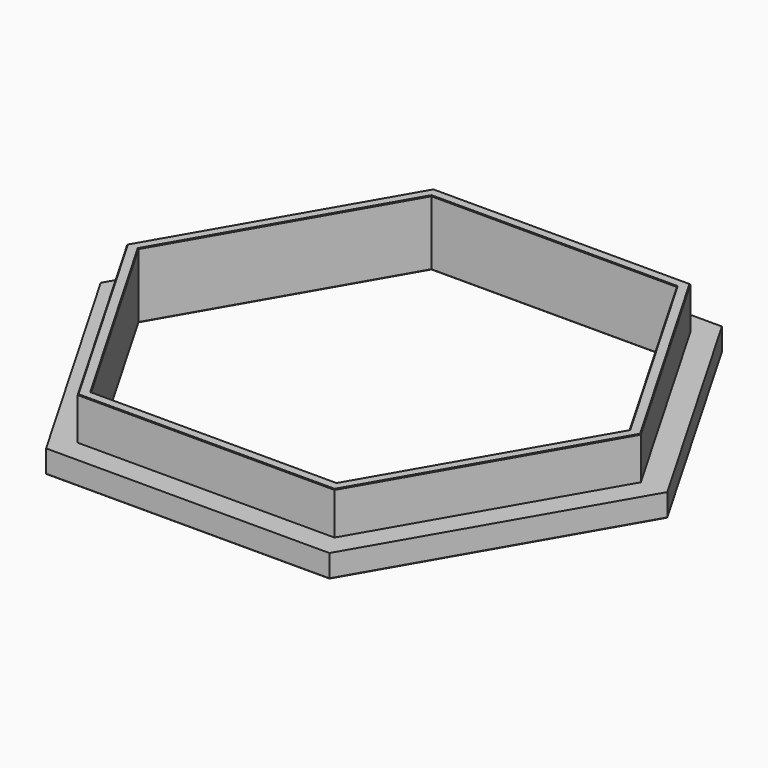
from build123d import *

# Parameters (mm, degrees)
F1_DEPTH = 10
F2_DEPTH = 3.5
F3_SIZE  = 0.1


with BuildPart() as f1:
    # F0 (on Top) → F1 (new body)
    with BuildSketch(Plane.XY):
        Polygon((39.232051, 0), (19.616025, 33.975953), (-19.616025, 33.975953), (-39.232051, 0), (-19.616025, -33.975953), (19.616025, -33.975953), align=None)
        Polygon((-18.75, 32.475953), (18.75, 32.475953), (37.5, 0), (18.75, -32.475953), (-18.75, -32.475953), (-37.5, 0), align=None, mode=Mode.SUBTRACT)
    extrude(amount=F1_DEPTH)

    # F0 (on Top) → F2 (join)
    with BuildSketch(Plane.XY):
        Polygon((43.273503, 0), (21.636751, 37.475953), (-21.636751, 37.475953), (-43.273503, 0), (-21.636751, -37.475953), (21.636751, -37.475953), align=None)
        Polygon((-19.616025, 33.975953), (19.616025, 33.975953), (39.232051, 0), (19.616025, -33.975953), (-19.616025, -33.975953), (-39.232051, 0), align=None, mode=Mode.SUBTRACT)
    extrude(amount=F2_DEPTH)

    # F3
    f3_edges = [f1.edges().sort_by_distance(p)[0] for p in [
        (0, -37.475953, 0),
        (32.455127, -18.737976, 0),
        (32.455127, 18.737976, 0),
        (0, 37.475953, 0),
        (-32.455127, 18.737976, 0),
        (-32.455127, -18.737976, 0),
        (-28.125, -16.237976, 0),
        (-28.125, 16.237976, 0),
        (0, 32.475953, 0),
        (28.125, 16.237976, 0),
        (28.125, -16.237976, 0),
        (0, -32.475953, 0),
        (29.424038, 16.987976, 10),
        (0, 33.975953, 10),
        (-29.424038, 16.987976, 10),
        (-29.424038, -16.987976, 10),
        (0, -33.975953, 10),
        (29.424038, -16.987976, 10),
        (0, 32.475953, 10),
        (28.125, 16.237976, 10),
        (28.125, -16.237976, 10),
        (0, -32.475953, 10),
        (-28.125, -16.237976, 10),
        (-28.125, 16.237976, 10),
    ]]
    chamfer(f3_edges, length=F3_SIZE)


solid = f1.part
